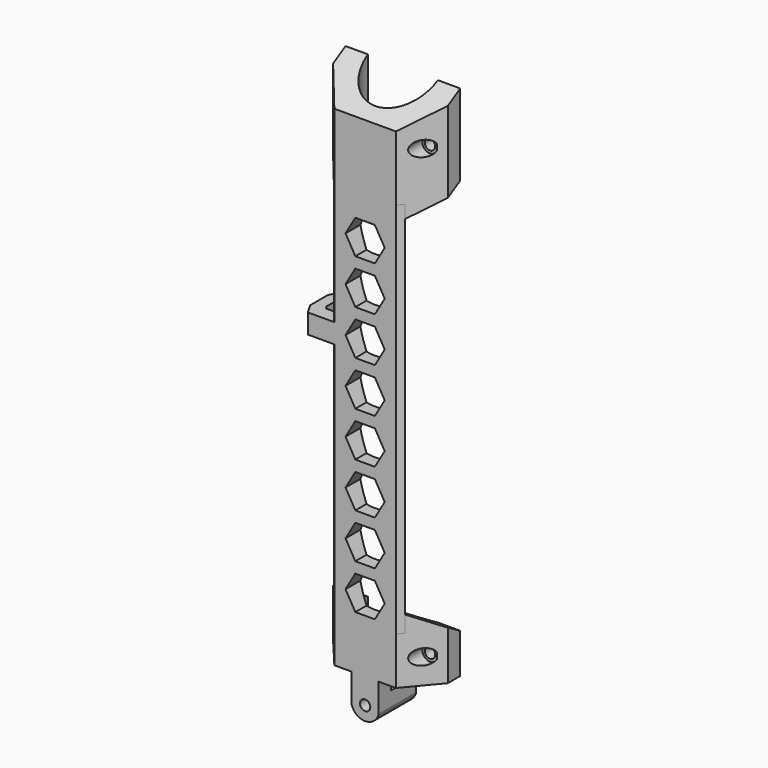
from build123d import *

# Parameters (mm, degrees)
SKETCH242_AS_DRAWN_R                    = 1.85
EXTRUDE136028_DEPTH                     = 20
EXTRUDE136028_ONTO_SKETCH242_ROLL_ANGLE = 90
EXTRUDE136035_DEPTH                     = 50
SKETCH245_AS_DRAWN_R                    = 2.75
EXTRUDE136031_DEPTH                     = 9
EXTRUDE136031_ONTO_SKETCH245_ROLL_ANGLE = 90
SKETCH244_AS_DRAWN_R                    = 1.85
EXTRUDE136030_DEPTH                     = 20
EXTRUDE136030_ONTO_SKETCH244_ROLL_ANGLE = 90
EXTRUDE136029_DEPTH                     = 38
EXTRUDE136036_DEPTH                     = 50
SKETCH248_AS_DRAWN_R                    = 2.75
EXTRUDE136034_DEPTH                     = 9
EXTRUDE136034_ONTO_SKETCH248_ROLL_ANGLE = 90
SKETCH247_AS_DRAWN_R                    = 1.85
EXTRUDE136033_DEPTH                     = 20
EXTRUDE136033_ONTO_SKETCH247_ROLL_ANGLE = 90
EXTRUDE136032_DEPTH                     = 24
EXTRUDE136037_DEPTH                     = 14
SKETCH252_W                             = 9.75
SKETCH252_H                             = 16.75
EXTRUDE136038_DEPTH                     = 9
EXTRUDE136039_DEPTH                     = 7
EXTRUDE136027_DEPTH                     = 135


with BuildPart() as extrude136028:
    # Sketch242 as drawn → Extrude136028 (new)
    with BuildSketch(Plane.XY):
        with Locations((0, -9)):
            Circle(SKETCH242_AS_DRAWN_R)
        Polygon((3.5, 19.187822), (7, 25.25), (3.5, 31.312178), (-3.5, 31.312178), (-7, 25.25), (-3.5, 19.187822), align=None)
        Polygon((3.5, 35.187822), (7, 41.25), (3.5, 47.312178), (-3.5, 47.312178), (-7, 41.25), (-3.5, 35.187822), align=None)
        Polygon((3.5, 51.187822), (7, 57.25), (3.5, 63.312178), (-3.5, 63.312178), (-7, 57.25), (-3.5, 51.187822), align=None)
        Polygon((3.5, 67.187822), (7, 73.25), (3.5, 79.312178), (-3.5, 79.312178), (-7, 73.25), (-3.5, 67.187822), align=None)
        Polygon((3.5, 83.187822), (7, 89.25), (3.5, 95.312178), (-3.5, 95.312178), (-7, 89.25), (-3.5, 83.187822), align=None)
        Polygon((3.5, 99.187822), (7, 105.25), (3.5, 111.312178), (-3.5, 111.312178), (-7, 105.25), (-3.5, 99.187822), align=None)
        Polygon((3.5, 115.187822), (7, 121.25), (3.5, 127.312178), (-3.5, 127.312178), (-7, 121.25), (-3.5, 115.187822), align=None)
        Polygon((3.5, 131.187822), (7, 137.25), (3.5, 143.312178), (-3.5, 143.312178), (-7, 137.25), (-3.5, 131.187822), align=None)
        with BuildLine():
            Line((5, -8.999981), (5, -15.999981))
            Line((5, -15.999981), (-5, -15.999981))
            Line((-5, -15.999981), (-5, -8.999981))
            ThreePointArc((-5, -8.999981), (0, -14), (5, -8.999981))
        make_face()
    extrude(amount=-EXTRUDE136028_DEPTH)


with BuildPart() as extrude136028_1:
    # Extrude136028 onto Sketch242 roll: moved
    add(extrude136028.part.rotate(Axis((0, 0, 0), (1, 0, 0)), EXTRUDE136028_ONTO_SKETCH242_ROLL_ANGLE))


with BuildPart() as extrude136028_2:
    # Extrude136028 onto Sketch242 placement: moved
    add(extrude136028_1.part)


with BuildPart() as extrude136035:
    # Sketch249 → Extrude136035 (new body)
    with BuildSketch(Plane.YZ):
        Polygon((0, -9.814955), (17, 0), (17, -9.814955), align=None)
        Polygon((17, 29), (0, 19.185045), (0, 29), align=None)
    extrude(amount=EXTRUDE136035_DEPTH)


with BuildPart() as extrude136035_1:
    # Extrude136035 placement: moved
    add(extrude136035.part.moved(Location((-25, 0, 0))))


with BuildPart() as extrude136031:
    # Sketch245 as drawn → Extrude136031 (new)
    with BuildSketch(Plane.XY):
        with Locations((-16, 0)):
            Circle(SKETCH245_AS_DRAWN_R)
        with Locations((16, 0)):
            Circle(SKETCH245_AS_DRAWN_R)
    extrude(amount=-EXTRUDE136031_DEPTH)


with BuildPart() as extrude136031_1:
    # Extrude136031 onto Sketch245 roll: moved
    add(extrude136031.part.rotate(Axis((0, 0, 0), (1, 0, 0)), EXTRUDE136031_ONTO_SKETCH245_ROLL_ANGLE))


with BuildPart() as extrude136031_2:
    # Extrude136031 onto Sketch245 placement: moved
    add(extrude136031_1.part)


with BuildPart() as fusion034004041043:
    # Sketch244 as drawn → Extrude136030 (new)
    with BuildSketch(Plane.XY):
        with Locations((-16, 0)):
            Circle(SKETCH244_AS_DRAWN_R)
        with Locations((16, 0)):
            Circle(SKETCH244_AS_DRAWN_R)
    extrude(amount=-EXTRUDE136030_DEPTH)


with BuildPart() as fusion034004041043_1:
    # Extrude136030 onto Sketch244 roll: moved
    add(fusion034004041043.part.rotate(Axis((0, 0, 0), (1, 0, 0)), EXTRUDE136030_ONTO_SKETCH244_ROLL_ANGLE))


with BuildPart() as fusion034004041043_2:
    # Extrude136030 onto Sketch244 placement: moved
    add(fusion034004041043_1.part)

    # Fusion034004041041: union Extrude136031
    add(extrude136031_2.part)


with BuildPart() as fusion034004041043_3:
    # Fusion034004041041 placement: moved
    add(fusion034004041043_2.part.moved(Location((0, 0, 13))))

    # Fusion034004041043: union Extrude136035
    add(extrude136035_1.part)


with BuildPart() as cut009010006006006005003:
    # Sketch243 → Extrude136029 (new body)
    with BuildSketch(Plane.XY):
        with BuildLine():
            Line((-11, 0), (11, 0))
            Line((20.5, 11.321659), (11, 0))
            Line((20.5, 11.321659), (20.5, 16.890918))
            Line((20.5, 16.890918), (12.499524, 16.890918))
            ThreePointArc((-12.499524, 16.890918), (0, 4.5), (12.499524, 16.890918))
            Line((-20.5, 16.890918), (-12.499524, 16.890918))
            Line((-20.5, 11.321659), (-20.5, 16.890918))
            Line((-20.5, 11.321659), (-11, 0))
        make_face()
    extrude(amount=EXTRUDE136029_DEPTH)


with BuildPart() as cut009010006006006005003_1:
    # Extrude136029 placement: moved
    add(cut009010006006006005003.part.moved(Location((0, 0, -9))))

    # Cut009010006006006005003: cut Fusion034004041043
    add(fusion034004041043_3.part, mode=Mode.SUBTRACT)


with BuildPart() as cut009010006006006005003_2:
    # Cut009010006006006005003 placement: moved
    add(cut009010006006006005003_1.part.moved(Location((0, 0, 156))))


with BuildPart() as extrude136036:
    # Sketch250 → Extrude136036 (new body)
    with BuildSketch(Plane.YZ):
        Polygon((0, 24), (17, 24), (17, 14.185045), align=None)
    extrude(amount=EXTRUDE136036_DEPTH)


with BuildPart() as extrude136036_1:
    # Extrude136036 placement: moved
    add(extrude136036.part.moved(Location((-25, 0, 0))))


with BuildPart() as extrude136034:
    # Sketch248 as drawn → Extrude136034 (new)
    with BuildSketch(Plane.XY):
        with Locations((-16, 0)):
            Circle(SKETCH248_AS_DRAWN_R)
        with Locations((16, 0)):
            Circle(SKETCH248_AS_DRAWN_R)
    extrude(amount=-EXTRUDE136034_DEPTH)


with BuildPart() as extrude136034_1:
    # Extrude136034 onto Sketch248 roll: moved
    add(extrude136034.part.rotate(Axis((0, 0, 0), (1, 0, 0)), EXTRUDE136034_ONTO_SKETCH248_ROLL_ANGLE))


with BuildPart() as extrude136034_2:
    # Extrude136034 onto Sketch248 placement: moved
    add(extrude136034_1.part)


with BuildPart() as fusion034004041042:
    # Sketch247 as drawn → Extrude136033 (new)
    with BuildSketch(Plane.XY):
        with Locations((-16, 0)):
            Circle(SKETCH247_AS_DRAWN_R)
        with Locations((16, 0)):
            Circle(SKETCH247_AS_DRAWN_R)
    extrude(amount=-EXTRUDE136033_DEPTH)


with BuildPart() as fusion034004041042_1:
    # Extrude136033 onto Sketch247 roll: moved
    add(fusion034004041042.part.rotate(Axis((0, 0, 0), (1, 0, 0)), EXTRUDE136033_ONTO_SKETCH247_ROLL_ANGLE))


with BuildPart() as fusion034004041042_2:
    # Extrude136033 onto Sketch247 placement: moved
    add(fusion034004041042_1.part)

    # Fusion034004041042: union Extrude136034
    add(extrude136034_2.part)


with BuildPart() as fusion034004041042_3:
    # Fusion034004041042 placement: moved
    add(fusion034004041042_2.part.moved(Location((0, 0, 9))))


with BuildPart() as cut009010006006006005004:
    # Sketch246 → Extrude136032 (new body)
    with BuildSketch(Plane.XY):
        with BuildLine():
            Line((-11, 0), (11, 0))
            Line((20.5, 11.321659), (11, 0))
            Line((20.5, 11.321659), (20.5, 16.890918))
            Line((20.5, 16.890918), (12.499524, 16.890918))
            ThreePointArc((-12.499524, 16.890918), (0, 4.5), (12.499524, 16.890918))
            Line((-20.5, 16.890918), (-12.499524, 16.890918))
            Line((-20.5, 11.321659), (-20.5, 16.890918))
            Line((-20.5, 11.321659), (-11, 0))
        make_face()
    extrude(amount=EXTRUDE136032_DEPTH)

    # Cut009010006006006005002: cut Fusion034004041042
    add(fusion034004041042_3.part, mode=Mode.SUBTRACT)

    # Cut009010006006006005004: cut Extrude136036
    add(extrude136036_1.part, mode=Mode.SUBTRACT)


with BuildPart() as extrude136037:
    # Sketch251 → Extrude136037 (new body)
    with BuildSketch(Plane.XY):
        with BuildLine():
            Line((-4.875, 0), (4.875, 0))
            Line((4.875, 5.489814), (4.875, 0))
            ThreePointArc((-4.875, 5.489814), (0, 4.5), (4.875, 5.489814))
            Line((-4.875, 5.489814), (-4.875, 0))
        make_face()
    extrude(amount=-EXTRUDE136037_DEPTH)


with BuildPart() as extrude136038:
    # Sketch252 → Extrude136038 (new body)
    with BuildSketch(Plane.XY):
        with Locations((0, 8.375)):
            Rectangle(SKETCH252_W, SKETCH252_H)
    extrude(amount=-EXTRUDE136038_DEPTH)


with BuildPart() as extrude136038_1:
    # Extrude136038 placement: moved
    add(extrude136038.part.moved(Location((0, 0, -5))))


with BuildPart() as extrude136039:
    # Sketch253 → Extrude136039 (new body)
    with BuildSketch(Plane.XY):
        Polygon((0, 5), (0, 0), (-20.5, 0), (-22.665064, 3.75), (-22.665064, 11.75), (-20.5, 15.5), (-18, 15.5), (-18, 13), (-18.665064, 11.848076), (-18.665064, 6.151924), (-18, 5), align=None)
    extrude(amount=EXTRUDE136039_DEPTH)


with BuildPart() as extrude136039_1:
    # Extrude136039 placement: moved
    add(extrude136039.part.moved(Location((0, 0, 101))))


with BuildPart() as cut009010006006006005005:
    # Sketch241 → Extrude136027 (new body)
    with BuildSketch(Plane.XY):
        with BuildLine():
            Line((-11, 0), (11, 0))
            Line((11, 0), (12.678199, 2))
            Line((12.678199, 2), (7.609518, 7.083083))
            ThreePointArc((-7.609518, 7.083083), (0, 4.5), (7.609518, 7.083083))
            Line((-12.678199, 2), (-7.609518, 7.083083))
            Line((-11, 0), (-12.678199, 2))
        make_face()
    extrude(amount=EXTRUDE136027_DEPTH)


with BuildPart() as cut009010006006006005005_1:
    # Extrude136027 placement: moved
    add(cut009010006006006005005.part.moved(Location((0, 0, 17))))

    # Fusion034004041027: union Cut009010006006006005003, Cut009010006006006005004, Extrude136037, Extrude136038, Extrude136039
    add(cut009010006006006005003_2.part)
    add(cut009010006006006005004.part)
    add(extrude136037.part)
    add(extrude136038_1.part)
    add(extrude136039_1.part)

    # Cut009010006006006005005: cut Extrude136028
    add(extrude136028_2.part, mode=Mode.SUBTRACT)


solid = cut009010006006006005005_1.part
